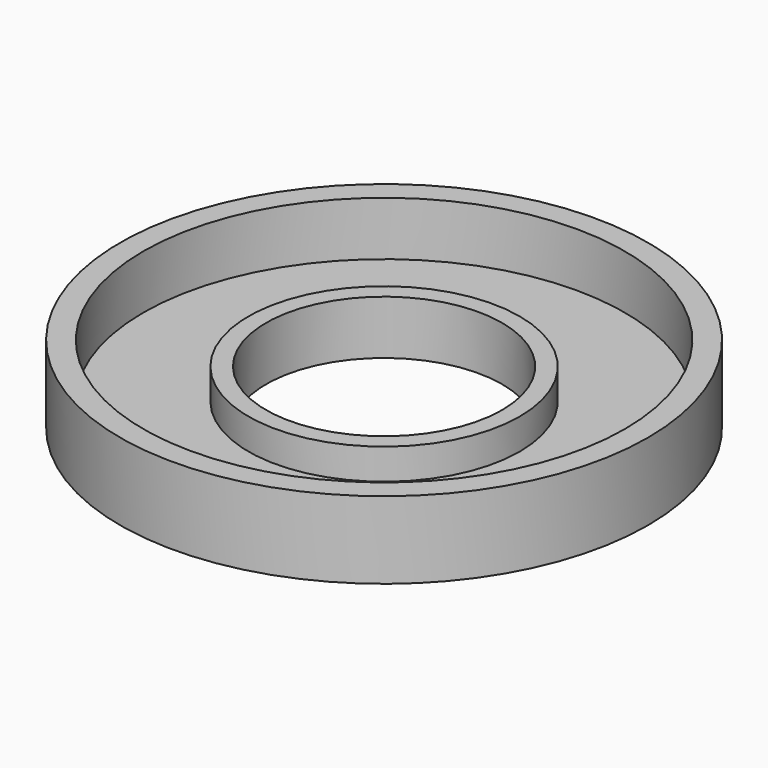
from build123d import *

# Parameters (mm, degrees)
F0_R     = 34.20786
F0_R_2   = 31.200093
F1_DEPTH = 10
F2_R     = 33.653602
F2_R_2   = 15.364183
F3_DEPTH = 3
F4_R     = 17.580628
F4_R_2   = 15.298754
F5_DEPTH = 7


with BuildPart() as f1:
    # F0 (on Top) → F1 (new body)
    with BuildSketch(Plane.XY):
        Circle(F0_R)
        Circle(F0_R_2, mode=Mode.SUBTRACT)
    extrude(amount=F1_DEPTH)

    # F2 (on Top) → F3 (join)
    with BuildSketch(Plane.XY):
        Circle(F2_R)
        Circle(F2_R_2, mode=Mode.SUBTRACT)
    extrude(amount=F3_DEPTH)

    # F4 (on Top) → F5 (join)
    with BuildSketch(Plane.XY):
        Circle(F4_R)
        Circle(F4_R_2, mode=Mode.SUBTRACT)
    extrude(amount=F5_DEPTH)


solid = f1.part
